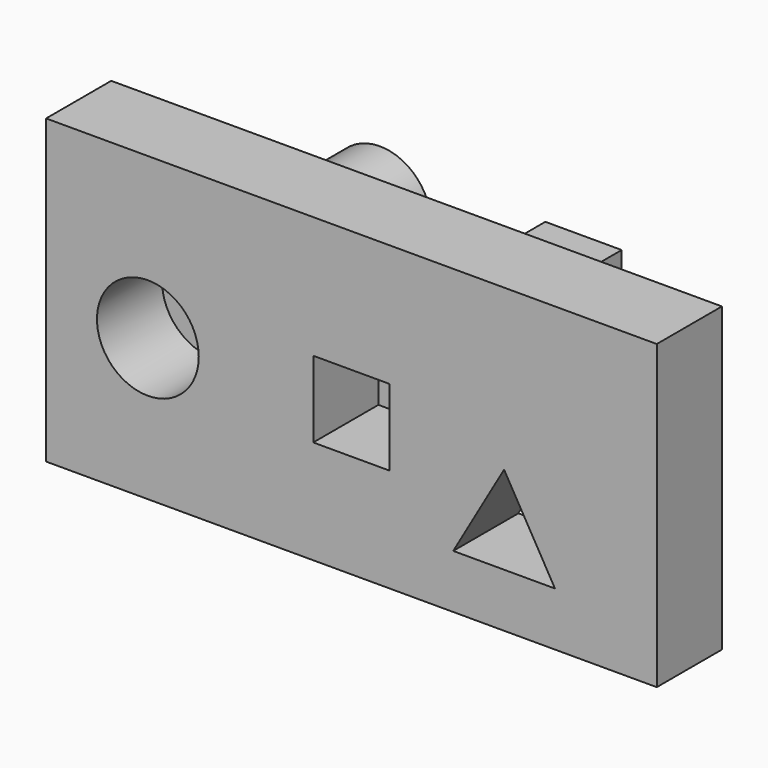
from build123d import *

# Parameters (mm, degrees)
F0_R     = 12.7
F1_DEPTH = 52.07
F2_DEPTH = 20.32


with BuildPart() as f1:
    # F0 (on Front) → F1 (new body)
    with BuildSketch(Plane.XZ):
        with Locations((-82.55, 0)):
            Circle(F0_R)
        Polygon((-31.75, 0), (-22.225, 0), (-22.225, 9.525), (-41.275, 9.525), (-41.275, 0), align=None)
        Polygon((-22.225, -9.525), (-22.225, 0), (-31.75, 0), (-41.275, 0), (-41.275, -9.525), align=None)
    extrude(amount=-F1_DEPTH)


with BuildPart() as f2:
    # F0 (on Front) → F2 (new body)
    with BuildSketch(Plane.XZ):
        with Locations((-82.55, 0)):
            Circle(F0_R)
        Polygon((-107.95, -35.411008), (0, -35.411008), (44.45, -35.411008), (44.45, 39.980177), (-107.95, 39.980177), align=None)
        with Locations((-82.55, 0)):
            Circle(F0_R, mode=Mode.SUBTRACT)
        Polygon((-22.225, 9.525), (-22.225, 0), (-22.225, -9.525), (-41.275, -9.525), (-41.275, 0), (-41.275, 9.525), align=None, mode=Mode.SUBTRACT)
        Polygon((-6.35, -21.997045), (6.35, 0), (19.05, -21.997045), align=None, mode=Mode.SUBTRACT)
    extrude(amount=F2_DEPTH)


solid = Compound([f1.part, f2.part])
